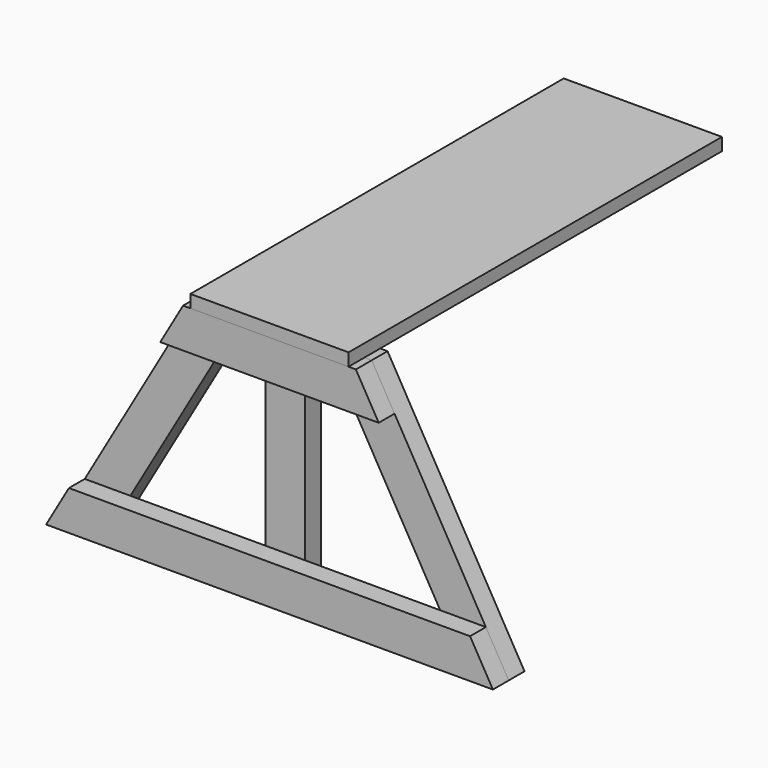
from build123d import *

# Parameters (mm, degrees)
F0_W     = 200
F0_H     = 16
F1_DEPTH = 590
F3_DEPTH = 25
F5_DEPTH = 25
F6_W     = 50
F6_H     = 300
F7_DEPTH = 25
F9_DEPTH = 25


with BuildPart() as f1:
    # F0 (on Front) → F1 (new body)
    with BuildSketch(Plane.XZ):
        with Locations((0, 308)):
            Rectangle(F0_W, F0_H)
    extrude(amount=-F1_DEPTH)


with BuildPart() as f3:
    # F2 (on Front) → F3 (new body)
    with BuildSketch(Plane.XZ):
        Polygon((-109.237604, 300), (-138.105118, 250), (138.105118, 250), (109.237604, 300), align=None)
    extrude(amount=-F3_DEPTH)


with BuildPart() as f5:
    # F4 (on Front) → F5 (new body)
    with BuildSketch(Plane.XZ):
        Polygon((-253.575172, 50), (-282.442685, 0), (282.442685, 0), (253.575172, 50), align=None)
    extrude(amount=-F5_DEPTH)


with BuildPart() as f7:
    # F6 (on face) → F7 (new body)
    with BuildSketch(Plane(origin=(0, 25, 0), x_dir=(-1, 0, 0), z_dir=(0, 1, 0))):
        with Locations((0, 150)):
            Rectangle(F6_W, F6_H)
    extrude(amount=F7_DEPTH)


with BuildPart() as f9:
    # F8 (on face) → F9 (new body)
    with BuildSketch(Plane(origin=(0, 25, 0), x_dir=(-1, 0, 0), z_dir=(0, 1, 0))):
        Polygon((-109.237604, 300), (-282.442685, 0), (-224.707658, 0), (-51.502577, 300), align=None)
    extrude(amount=F9_DEPTH)


with BuildPart() as f10_1:
    # F10: instance of F9
    add(f9.part.mirror(Plane.YZ))


solid = Compound([f1.part, f3.part, f5.part, f7.part, f9.part, f10_1.part])
